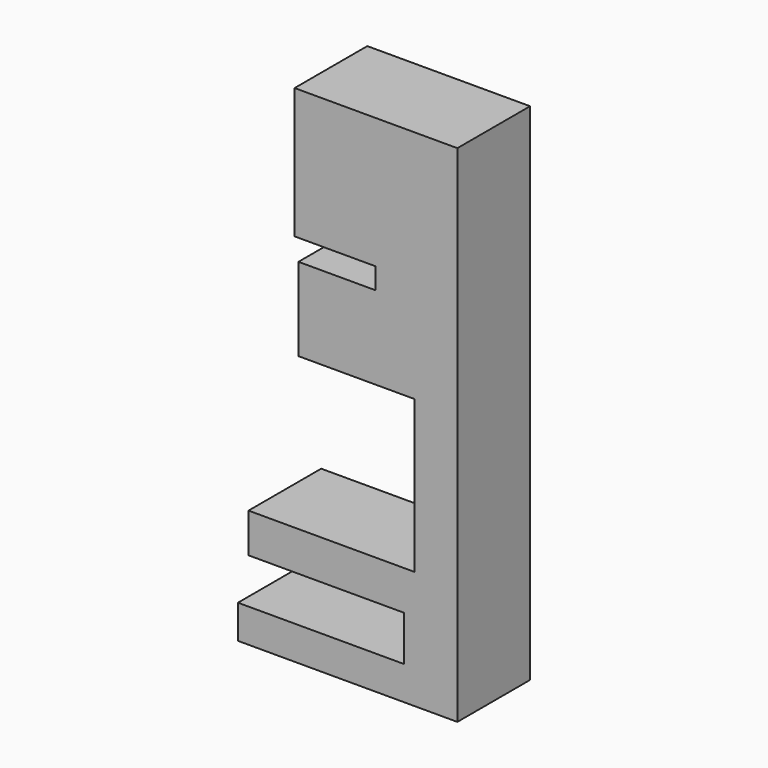
from build123d import *

# Parameters (mm, degrees)
F0_W     = 22.9558888823
F0_H     = 5.9067774564
F0_W_2   = 11.947802268
F0_H_2   = 42.5556525588
F0_W_3   = 14.9011919275
F0_H_3   = 12.6190260053
F1_DEPTH = 25.4


with BuildPart() as f1:
    # F0 (on Front) → F1 (new body)
    with BuildSketch(Plane.XZ):
        Polygon((0, 65.6457915902), (-45.509044081, 65.6457915902), (-45.509044081, 29.1311573237), (-22.9558888823, 29.1311573237), (0, 29.1311573237), align=None)
        with Locations((-11.4779444411, 26.1777685955)):
            Rectangle(F0_W, F0_H)
        Polygon((0, 0), (0, 23.2243798673), (-22.9558888823, 23.2243798673), (-44.4350838661, 23.2243798673), (-44.4350838661, 0), (-11.947802268, 0), align=None)
        with Locations((-5.973901134, -21.2778262794)):
            Rectangle(F0_W_2, F0_H_2)
        Polygon((0, -53.5637438297), (0, -42.5556525588), (-11.947802268, -42.5556525588), (-58.3965592086, -42.5556525588), (-58.3965592086, -53.5637438297), (-14.9011919275, -53.5637438297), align=None)
        with Locations((-7.4505959637, -59.8732568324)):
            Rectangle(F0_W_3, F0_H_3)
        Polygon((0, -75.579918921), (0, -66.182769835), (-14.9011919275, -66.182769835), (-61.3499507308, -66.182769835), (-61.3499507308, -75.579918921), align=None)
    extrude(amount=F1_DEPTH)


solid = f1.part
